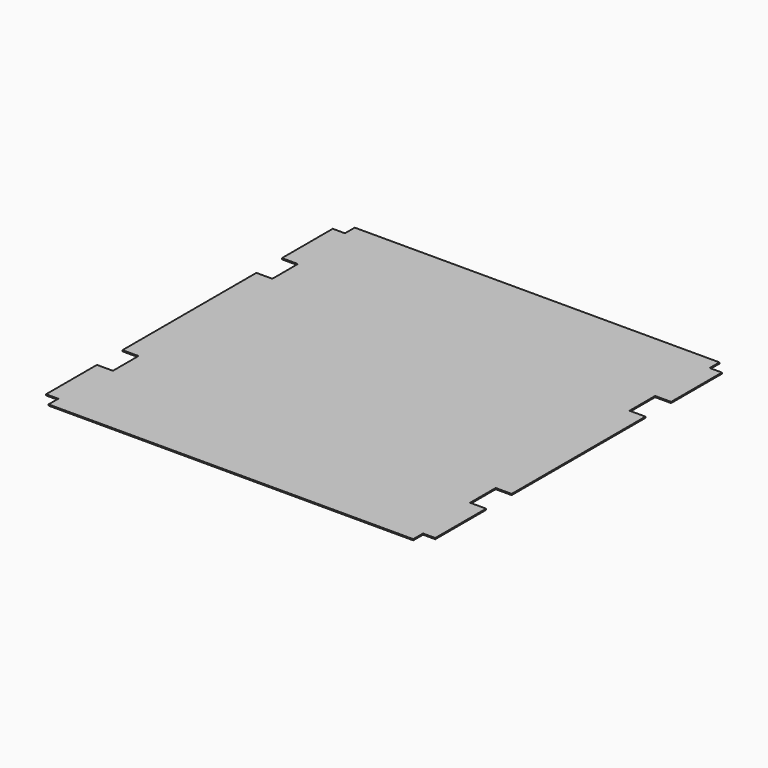
from build123d import *

# Parameters (mm, degrees)
F0_W     = 2070
F0_H     = 2036
F1_DEPTH = 3
F2_W     = 65
F2_H     = 65
F2_W_2   = 170
F2_H_2   = 170
F3_DEPTH = 6.001


with BuildPart() as f1:
    # F0 (on Top) → F1 (new body, symmetric)
    with BuildSketch(Plane.XY):
        Rectangle(F0_W, F0_H)
    extrude(amount=F1_DEPTH, both=True)

    # F2 (on face) → F3 (cut, through all)
    with BuildSketch(Plane.XY.offset(3)):
        with Locations((-1002.5, 985.5)):
            Rectangle(F2_W, F2_H)
        with Locations((-1035, 530)):
            Rectangle(F2_W_2, F2_H_2)
        with Locations((-1002.5, -985.5)):
            Rectangle(F2_W, F2_H)
        with Locations((-1035, -530)):
            Rectangle(F2_W_2, F2_H_2)
        with Locations((1002.5, 985.5)):
            Rectangle(F2_W, F2_H)
        with Locations((1002.5, -985.5)):
            Rectangle(F2_W, F2_H)
        with Locations((1035, -530)):
            Rectangle(F2_W_2, F2_H_2)
        with Locations((1035, 530)):
            Rectangle(F2_W_2, F2_H_2)
    extrude(amount=-F3_DEPTH, mode=Mode.SUBTRACT)


solid = f1.part
